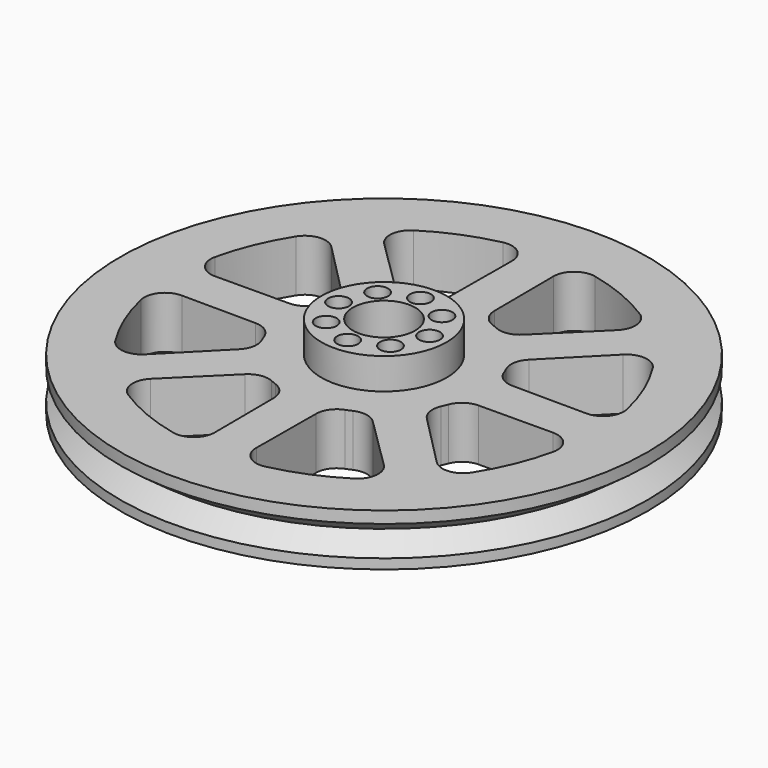
from build123d import *

# Parameters (mm, degrees)
F0_R     = 25.4
F0_R_2   = 3.125
F1_DEPTH = 5
F2_R     = 6.031593
F3_DEPTH = 8
F4_R     = 3
F5_DEPTH = 8.001
F8_R     = 1.008959
F9_DEPTH = 8.001


with BuildPart() as f1:
    # F0 (on Top) → F1 (new body)
    with BuildSketch(Plane.XY):
        Circle(F0_R)
        with BuildLine():
            ThreePointArc((-10.88453, -17.158945), (-11.801786, -15.683608), (-11.218679, -14.04716))
            Line((-11.218679, -14.04716), (-6.139343, -9.030124))
            ThreePointArc((-6.139343, -9.030124), (-5.086026, -8.484282), (-3.908805, -8.631157))
            ThreePointArc((-3.908805, -8.631157), (-3.625926, -8.753759), (-3.339207, -8.867092))
            ThreePointArc((-3.339207, -8.867092), (-2.40293, -9.595657), (-2.044091, -10.726433))
            Line((-2.044091, -10.726433), (-2.000038, -17.865646))
            ThreePointArc((-2.000038, -17.865646), (-2.744862, -19.435109), (-4.436681, -19.829732))
            ThreePointArc((-4.436681, -19.829732), (-7.776127, -18.773232), (-10.88453, -17.158945))
        make_face(mode=Mode.SUBTRACT)
        with BuildLine():
            ThreePointArc((-19.829732, -4.436681), (-19.435109, -2.744862), (-17.865646, -2.000038))
            Line((-17.865646, -2.000038), (-10.726433, -2.044091))
            ThreePointArc((-10.726433, -2.044091), (-9.595657, -2.40293), (-8.867092, -3.339207))
            ThreePointArc((-8.867092, -3.339207), (-8.753759, -3.625926), (-8.631157, -3.908805))
            ThreePointArc((-8.631157, -3.908805), (-8.484282, -5.086026), (-9.030124, -6.139343))
            Line((-9.030124, -6.139343), (-14.04716, -11.218679))
            ThreePointArc((-14.04716, -11.218679), (-15.683608, -11.801786), (-17.158945, -10.88453))
            ThreePointArc((-17.158945, -10.88453), (-18.773232, -7.776127), (-19.829732, -4.436681))
        make_face(mode=Mode.SUBTRACT)
        Circle(F0_R_2, mode=Mode.SUBTRACT)
        with BuildLine():
            ThreePointArc((4.436681, -19.829732), (2.744862, -19.435109), (2.000038, -17.865646))
            Line((2.000038, -17.865646), (2.044091, -10.726433))
            ThreePointArc((2.044091, -10.726433), (2.40293, -9.595657), (3.339207, -8.867092))
            ThreePointArc((3.339207, -8.867092), (3.625926, -8.753759), (3.908805, -8.631157))
            ThreePointArc((3.908805, -8.631157), (5.086026, -8.484282), (6.139343, -9.030124))
            Line((6.139343, -9.030124), (11.218679, -14.04716))
            ThreePointArc((11.218679, -14.04716), (11.801786, -15.683608), (10.88453, -17.158945))
            ThreePointArc((10.88453, -17.158945), (7.776127, -18.773232), (4.436681, -19.829732))
        make_face(mode=Mode.SUBTRACT)
        with BuildLine():
            ThreePointArc((17.158945, -10.88453), (15.683608, -11.801786), (14.04716, -11.218679))
            Line((14.04716, -11.218679), (9.030124, -6.139343))
            ThreePointArc((9.030124, -6.139343), (8.484282, -5.086026), (8.631157, -3.908805))
            ThreePointArc((8.631157, -3.908805), (8.753759, -3.625926), (8.867092, -3.339207))
            ThreePointArc((8.867092, -3.339207), (9.595657, -2.40293), (10.726433, -2.044091))
            Line((10.726433, -2.044091), (17.865646, -2.000038))
            ThreePointArc((17.865646, -2.000038), (19.435109, -2.744862), (19.829732, -4.436681))
            ThreePointArc((19.829732, -4.436681), (18.773232, -7.776127), (17.158945, -10.88453))
        make_face(mode=Mode.SUBTRACT)
        with BuildLine():
            ThreePointArc((-17.158945, 10.88453), (-15.683608, 11.801786), (-14.04716, 11.218679))
            Line((-14.04716, 11.218679), (-9.030124, 6.139343))
            ThreePointArc((-9.030124, 6.139343), (-8.484282, 5.086026), (-8.631157, 3.908805))
            ThreePointArc((-8.631157, 3.908805), (-8.753759, 3.625926), (-8.867092, 3.339207))
            ThreePointArc((-8.867092, 3.339207), (-9.595657, 2.40293), (-10.726433, 2.044091))
            Line((-10.726433, 2.044091), (-17.865646, 2.000038))
            ThreePointArc((-17.865646, 2.000038), (-19.435109, 2.744862), (-19.829732, 4.436681))
            ThreePointArc((-19.829732, 4.436681), (-18.773232, 7.776127), (-17.158945, 10.88453))
        make_face(mode=Mode.SUBTRACT)
        with BuildLine():
            ThreePointArc((-10.88453, 17.158945), (-7.776127, 18.773232), (-4.436681, 19.829732))
            ThreePointArc((-4.436681, 19.829732), (-2.744862, 19.435109), (-2.000038, 17.865646))
            Line((-2.000038, 17.865646), (-2.044091, 10.726433))
            ThreePointArc((-2.044091, 10.726433), (-2.40293, 9.595657), (-3.339207, 8.867092))
            ThreePointArc((-3.339207, 8.867092), (-3.625926, 8.753759), (-3.908805, 8.631157))
            ThreePointArc((-3.908805, 8.631157), (-5.086026, 8.484282), (-6.139343, 9.030124))
            Line((-6.139343, 9.030124), (-11.218679, 14.04716))
            ThreePointArc((-11.218679, 14.04716), (-11.801786, 15.683608), (-10.88453, 17.158945))
        make_face(mode=Mode.SUBTRACT)
        with BuildLine():
            ThreePointArc((19.829732, 4.436681), (19.435109, 2.744862), (17.865646, 2.000038))
            Line((17.865646, 2.000038), (10.726433, 2.044091))
            ThreePointArc((10.726433, 2.044091), (9.595657, 2.40293), (8.867092, 3.339207))
            ThreePointArc((8.867092, 3.339207), (8.753759, 3.625926), (8.631157, 3.908805))
            ThreePointArc((8.631157, 3.908805), (8.484282, 5.086026), (9.030124, 6.139343))
            Line((9.030124, 6.139343), (14.04716, 11.218679))
            ThreePointArc((14.04716, 11.218679), (15.683608, 11.801786), (17.158945, 10.88453))
            ThreePointArc((17.158945, 10.88453), (18.773232, 7.776127), (19.829732, 4.436681))
        make_face(mode=Mode.SUBTRACT)
        with BuildLine():
            Line((2.044091, 10.726433), (2.000038, 17.865646))
            ThreePointArc((2.000038, 17.865646), (2.744862, 19.435109), (4.436681, 19.829732))
            ThreePointArc((4.436681, 19.829732), (7.776127, 18.773232), (10.88453, 17.158945))
            ThreePointArc((10.88453, 17.158945), (11.801786, 15.683608), (11.218679, 14.04716))
            Line((11.218679, 14.04716), (6.139343, 9.030124))
            ThreePointArc((6.139343, 9.030124), (5.086026, 8.484282), (3.908805, 8.631157))
            ThreePointArc((3.908805, 8.631157), (3.625926, 8.753759), (3.339207, 8.867092))
            ThreePointArc((3.339207, 8.867092), (2.40293, 9.595657), (2.044091, 10.726433))
        make_face(mode=Mode.SUBTRACT)
    extrude(amount=F1_DEPTH)

    # F2 (on Top) → F3 (join)
    with BuildSketch(Plane.XY):
        Circle(F2_R)
    extrude(amount=F3_DEPTH)

    # F4 (on face) → F5 (cut, through all)
    with BuildSketch(Plane.XY.offset(8)):
        Circle(F4_R)
    extrude(amount=-F5_DEPTH, mode=Mode.SUBTRACT)

    # F6 (on Right) → F7 (revolve, cut)
    with BuildSketch(Plane.YZ):
        Polygon((25.457971, 0.902619), (25.4, 2.402619), (23.4, 2.402619), align=None)
        Polygon((23.4, 2.402619), (25.4, 2.402619), (25.457971, 3.902619), align=None)
    revolve(axis=Axis((0, 0, 8.098846), (0, 0, -1)), mode=Mode.SUBTRACT)

    # F8 (on Top) → F9 (cut, through all)
    with BuildSketch(Plane.XY):
        with Locations((0, 4.377856)):
            Circle(F8_R)
        with Locations((-3.095612, 3.095612)):
            Circle(F8_R)
        with Locations((-4.377856, 0)):
            Circle(F8_R)
        with Locations((-3.095612, -3.095612)):
            Circle(F8_R)
        with Locations((0, -4.377856)):
            Circle(F8_R)
        with Locations((3.095612, -3.095612)):
            Circle(F8_R)
        with Locations((4.377856, 0)):
            Circle(F8_R)
        with Locations((3.095612, 3.095612)):
            Circle(F8_R)
    extrude(amount=F9_DEPTH, mode=Mode.SUBTRACT)


solid = f1.part
